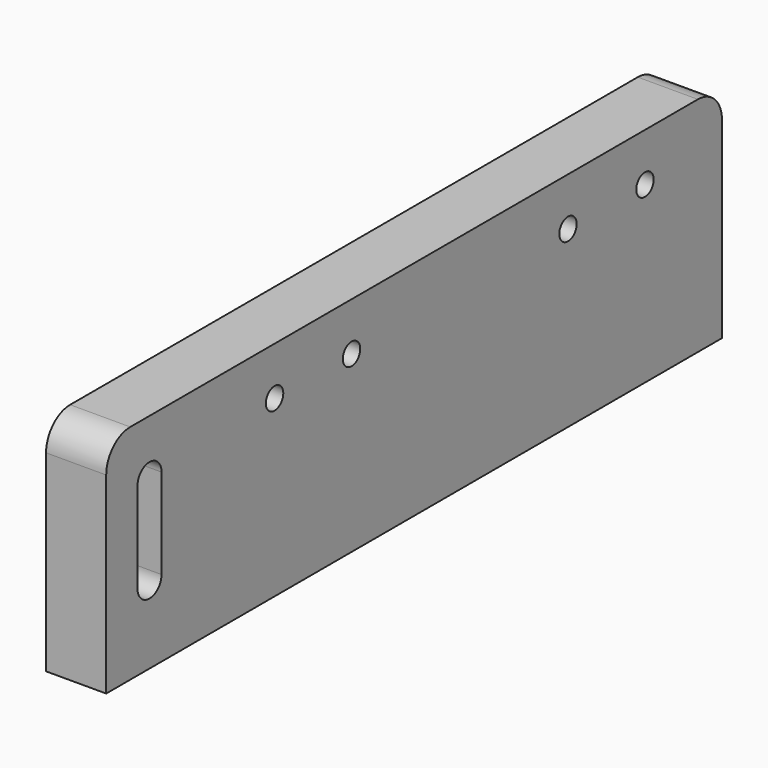
from build123d import *

# Parameters (mm, degrees)
F1_DEPTH = 15.875
F2_R     = 2.875
F3_DEPTH = 7.9375


with BuildPart() as f1:
    # F0 (on Right) → F1 (new body)
    with BuildSketch(Plane.YZ):
        with BuildLine():
            Line((0, 50.8), (0, 0))
            Line((0, 0), (203.2, 0))
            Line((203.2, 0), (203.2, 50.8))
            ThreePointArc((203.2, 50.8), (200.87516, 56.41266), (195.2625, 58.7375))
            Line((195.2625, 58.7375), (7.9375, 58.7375))
            ThreePointArc((7.9375, 58.7375), (2.32484, 56.41266), (0, 50.8))
        make_face()
    extrude(amount=F1_DEPTH)

    # F2 (on face) → F3 (cut)
    with BuildSketch(Plane.YZ.offset(15.875)):
        with BuildLine():
            ThreePointArc((18.25625, 44.053125), (14.2875, 48.021875), (10.31875, 44.053125))
            Line((10.31875, 44.053125), (10.31875, 20.240625))
            ThreePointArc((10.31875, 20.240625), (14.2875, 16.271875), (18.25625, 20.240625))
            Line((18.25625, 20.240625), (18.25625, 44.053125))
        make_face()
        with Locations((55.5625, 46.0375)):
            Circle(F2_R)
        with Locations((80.9625, 46.0375)):
            Circle(F2_R)
        with Locations((152.4, 46.0375)):
            Circle(F2_R)
        with Locations((177.8, 46.0375)):
            Circle(F2_R)
    extrude(amount=-F3_DEPTH, mode=Mode.SUBTRACT)


solid = f1.part
